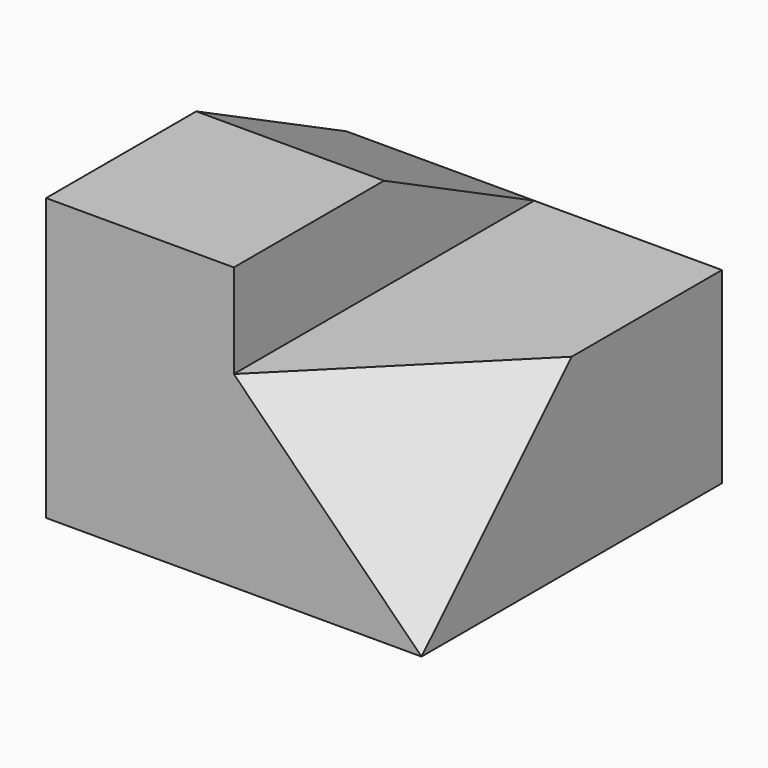
from build123d import *

# Parameters (mm, degrees)
F1_DEPTH = 127
F3_DEPTH = 127
F7_DEPTH = 277.876


with BuildPart() as f1:
    # F0 (on Front) → F1 (new body, symmetric)
    with BuildSketch(Plane.XZ):
        Polygon((0, 190.5), (0, 0), (254, 0), (254, 127), (127, 127), (127, 190.5), align=None)
    extrude(amount=F1_DEPTH, both=True)

    # F2 (on face) → F3 (cut)
    with BuildSketch(Plane(origin=(0, 0, 0), x_dir=(0, -1, 0), z_dir=(-1, 0, 0))):
        Polygon((-127, 127), (0, 190.5), (-127, 190.5), align=None)
    extrude(amount=-F3_DEPTH, mode=Mode.SUBTRACT)

    # F6 (on 3pt) → F7 (cut)
    with BuildSketch(Plane(origin=(127, -127, 127), x_dir=(0.8164965809, 0.4082482905, -0.4082482905), z_dir=(0.5773502692, -0.5773502692, 0.5773502692))):
        Polygon((155.5425986667, 89.8025612107), (0, 0), (155.5425986667, -89.8025612107), align=None)
    extrude(amount=F7_DEPTH, mode=Mode.SUBTRACT)


solid = f1.part
